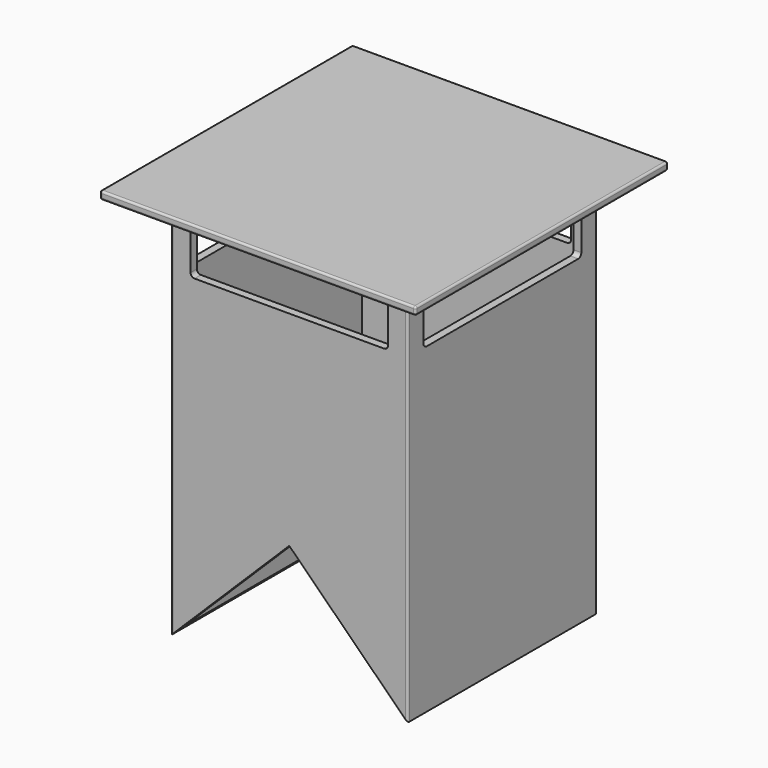
from build123d import *

# Parameters (mm, degrees)
F1_DEPTH = 30
F2_W     = 56
F2_H     = 56
F3_DEPTH = 100.001
F4_W     = 50
F4_H     = 15
F5_DEPTH = 60
F6_W     = 50
F6_H     = 15
F7_DEPTH = 30
F8_W     = 80
F8_H     = 80
F9_DEPTH = 2
F10_R    = 1
F11_R    = 1
F12_R    = 1
F13_R    = 1
F14_R    = 0.5
F15_R    = 0.5
F16_R    = 0.5


with BuildPart() as f1:
    # F0 (on Front) → F1 (new body, symmetric)
    with BuildSketch(Plane.XZ):
        Polygon((30, 49.2234811187), (0, 49.2234811187), (-30, 49.2234811187), (-30, -50.7765188813), (0, -21.0795458406), (30, -50.7765188813), align=None)
    extrude(amount=F1_DEPTH, both=True)

    # F2 (on face) → F3 (cut, through all)
    with BuildSketch(Plane.XY.offset(49.2234811187)):
        with Locations((-2.794e-06, 0)):
            Rectangle(F2_W, F2_H)
    extrude(amount=-F3_DEPTH, mode=Mode.SUBTRACT)

    # F4 (on face) → F5 (cut)
    with BuildSketch(Plane.XZ.offset(30)):
        with Locations((0, 38.2234811187)):
            Rectangle(F4_W, F4_H)
    extrude(amount=-F5_DEPTH, mode=Mode.SUBTRACT)

    # F6 (on Right) → F7 (cut, symmetric)
    with BuildSketch(Plane.YZ):
        with Locations((0, 38.2234811187)):
            Rectangle(F6_W, F6_H)
    extrude(amount=F7_DEPTH, both=True, mode=Mode.SUBTRACT)

    # F8 (on face) → F9 (join)
    with BuildSketch(Plane.XY.offset(49.2234811187)):
        Rectangle(F8_W, F8_H)
    extrude(amount=-F9_DEPTH)

    # F10
    f10_edges = [f1.edges().sort_by_distance(p)[0] for p in [
        (-29.000001, 25, 30.723481),
        (-29.000001, -25, 30.723481),
        (-29.000001, -25, 45.723481),
        (-29.000001, 25, 45.723481),
    ]]
    fillet(f10_edges, radius=F10_R)

    # F11
    f11_edges = [f1.edges().sort_by_distance(p)[0] for p in [
        (-25, 29, 45.723481),
        (-25, 29, 30.723481),
        (25, 29, 30.723481),
        (25, 29, 45.723481),
    ]]
    fillet(f11_edges, radius=F11_R)

    # F12
    f12_edges = [f1.edges().sort_by_distance(p)[0] for p in [
        (28.999999, 25, 45.723481),
        (28.999999, -25, 45.723481),
        (28.999999, -25, 30.723481),
        (28.999999, 25, 30.723481),
    ]]
    fillet(f12_edges, radius=F12_R)

    # F13
    f13_edges = [f1.edges().sort_by_distance(p)[0] for p in [
        (25, -29, 30.723481),
        (25, -29, 45.723481),
        (-25, -29, 45.723481),
        (-25, -29, 30.723481),
    ]]
    fillet(f13_edges, radius=F13_R)

    # F14
    f14_edges = [f1.edges().sort_by_distance(p)[0] for p in [
        (30, 30, -1.776519),
        (30, -30, -1.776519),
        (-30, 30, -1.776519),
        (-30, -30, -1.776519),
    ]]
    fillet(f14_edges, radius=F14_R)

    # F15
    f15_edges = [f1.edges().sort_by_distance(p)[0] for p in [
        (40, -40, 48.223481),
        (40, 0, 49.223481),
        (40, 0, 47.223481),
        (0, -40, 47.223481),
        (0, -40, 49.223481),
        (-40, -40, 48.223481),
        (-40, 0, 47.223481),
        (-40, 0, 49.223481),
        (0, 40, 47.223481),
        (0, 40, 49.223481),
        (-40, 40, 48.223481),
        (40, 40, 48.223481),
    ]]
    fillet(f15_edges, radius=F15_R)

    # F16
    f16_edges = [f1.edges().sort_by_distance(p)[0] for p in [
        (0, 30, 47.223481),
    ]]
    fillet(f16_edges, radius=F16_R)


solid = f1.part
